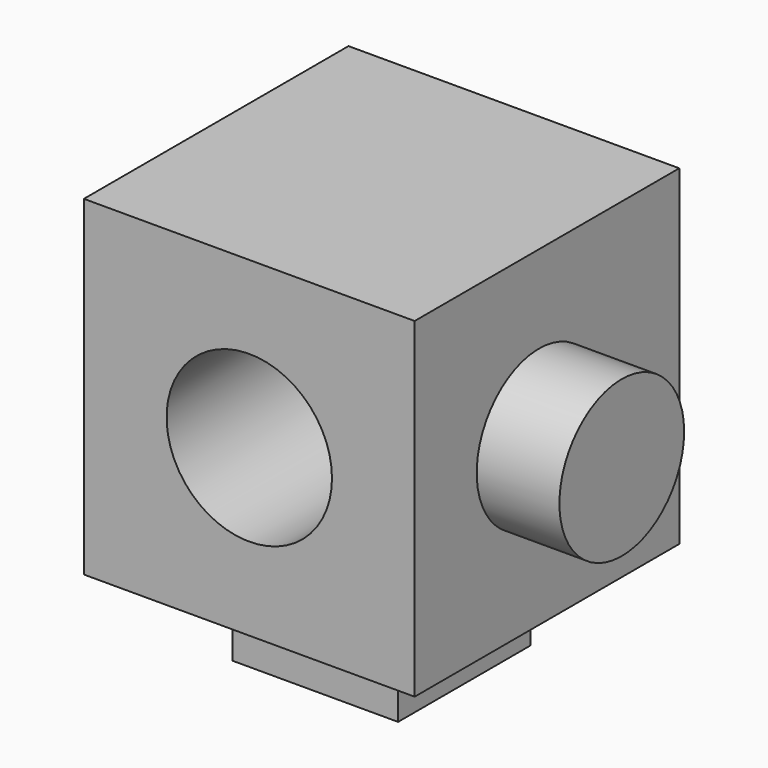
from build123d import *

# Parameters (mm, degrees)
F0_W     = 50.8
F0_H     = 50.8
F1_DEPTH = 50.8
F2_R     = 12.7
F3_DEPTH = 50.8
F4_W     = 25.4
F4_H     = 25.4
F5_DEPTH = 12.7
F6_R     = 11.970585
F7_DEPTH = 12.7


with BuildPart() as f1:
    # F0 (on Front) → F1 (new body)
    with BuildSketch(Plane.XZ):
        with Locations((-25.4, 25.4)):
            Rectangle(F0_W, F0_H)
    extrude(amount=F1_DEPTH)

    # F2 (on face) → F3 (cut)
    with BuildSketch(Plane.XZ.offset(50.8)):
        with Locations((-25.396316, 25.4)):
            Circle(F2_R)
    extrude(amount=-F3_DEPTH, mode=Mode.SUBTRACT)

    # F4 (on face) → F5 (join)
    with BuildSketch(Plane(origin=(0, 0, 0), x_dir=(1, 0, 0), z_dir=(0, 0, -1))):
        with Locations((-25.4, 25.4)):
            Rectangle(F4_W, F4_H)
    extrude(amount=F5_DEPTH)

    # F6 (on face) → F7 (join)
    with BuildSketch(Plane.YZ):
        with Locations((-26.912181, 25.4)):
            Circle(F6_R)
    extrude(amount=F7_DEPTH)


solid = f1.part
